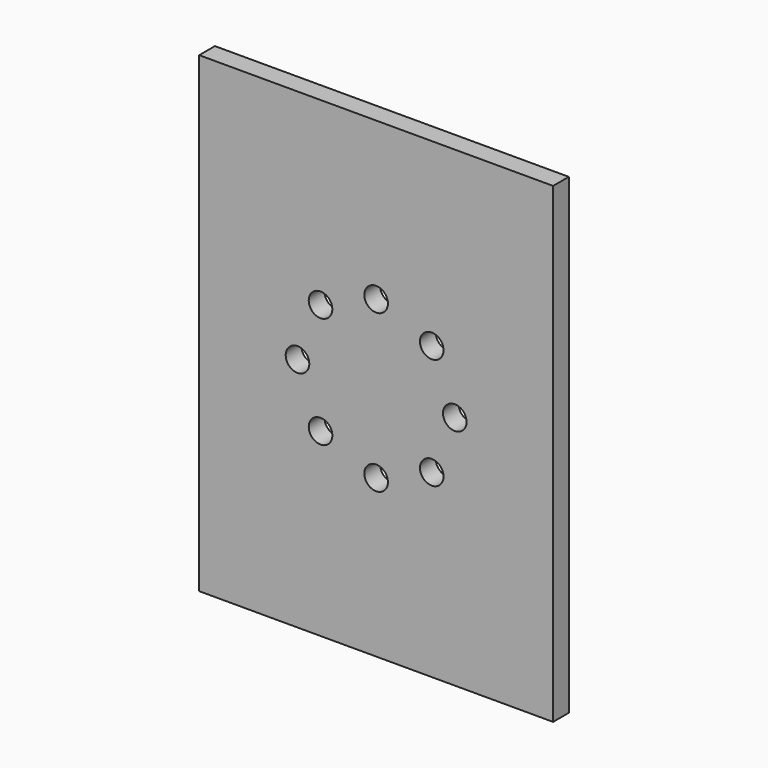
from build123d import *

# Parameters (mm, degrees)
F0_W     = 90
F0_H     = 120
F1_DEPTH = 5
F3_DEPTH = 5
F4_R     = 30
F4_R_2   = 3
F5_DEPTH = 5
F6_DEPTH = 5
F7_DEPTH = 10


with BuildPart() as f1:
    # F0 (on Front) → F1 (new body)
    with BuildSketch(Plane.XZ):
        with Locations((45, -60)):
            Rectangle(F0_W, F0_H)
    extrude(amount=F1_DEPTH)

    # F2 (on face) → F3 (join)
    with BuildSketch(Plane(origin=(0, 0, 0), x_dir=(-1, 0, 0), z_dir=(0, 1, 0))):
        with BuildLine():
            Line((-85, -104.8660687473), (-63, -114.8660687473))
            Line((-63, -114.8660687473), (-27, -114.8660687473))
            Line((-27, -114.8660687473), (-27, -109.8660687473))
            ThreePointArc((-27, -109.8660687473), (-21.8742088291, -98.5744789567), (-10, -95))
            Line((-10, -95), (-5, -95))
            Line((-5, -95), (-5, -24.8660687473))
            Line((-5, -24.8660687473), (-10, -24.8660687473))
            ThreePointArc((-10, -24.8660687473), (-21.8742088291, -21.2915897906), (-27, -10))
            Line((-27, -10), (-27, -5))
            Line((-27, -5), (-70, -5))
            ThreePointArc((-70, -5), (-80.6066017178, -9.3933982822), (-85, -20))
            Line((-85, -20), (-85, -104.8660687473))
        make_face()
    extrude(amount=F3_DEPTH)

    # F4 (on face) → F5 (cut)
    with BuildSketch(Plane(origin=(0, 5, 0), x_dir=(-1, 0, 0), z_dir=(0, 1, 0))):
        with Locations((-45, -60)):
            Circle(F4_R)
        with Locations((-59.14, -74.144270925)):
            Circle(F4_R_2, mode=Mode.SUBTRACT)
        with Locations((-65, -60)):
            Circle(F4_R_2, mode=Mode.SUBTRACT)
        with Locations((-45, -80)):
            Circle(F4_R_2, mode=Mode.SUBTRACT)
        with Locations((-30.86, -74.144270925)):
            Circle(F4_R_2, mode=Mode.SUBTRACT)
        with Locations((-25, -60)):
            Circle(F4_R_2, mode=Mode.SUBTRACT)
        with Locations((-59.14, -45.855729075)):
            Circle(F4_R_2, mode=Mode.SUBTRACT)
        with Locations((-45, -40)):
            Circle(F4_R_2, mode=Mode.SUBTRACT)
        with Locations((-30.86, -45.855729075)):
            Circle(F4_R_2, mode=Mode.SUBTRACT)
    extrude(amount=-F5_DEPTH, mode=Mode.SUBTRACT)

    # F6 (cut): a face of the model
    f6_faces = [f1.faces().sort_by_distance(p)[0] for p in [
        (25, 5, -60),
    ]]
    extrude(f6_faces, amount=-F6_DEPTH, mode=Mode.SUBTRACT)

    # F4 (on face) → F7 (cut)
    with BuildSketch(Plane(origin=(0, 5, 0), x_dir=(-1, 0, 0), z_dir=(0, 1, 0))):
        with Locations((-45, -80)):
            Circle(F4_R_2)
        with Locations((-30.86, -74.144270925)):
            Circle(F4_R_2)
        with Locations((-59.14, -45.855729075)):
            Circle(F4_R_2)
        with Locations((-65, -60)):
            Circle(F4_R_2)
        with Locations((-59.14, -74.144270925)):
            Circle(F4_R_2)
        with Locations((-30.86, -45.855729075)):
            Circle(F4_R_2)
        with Locations((-45, -40)):
            Circle(F4_R_2)
        with Locations((-25, -60)):
            Circle(F4_R_2)
    extrude(amount=-F7_DEPTH, mode=Mode.SUBTRACT)


solid = f1.part
